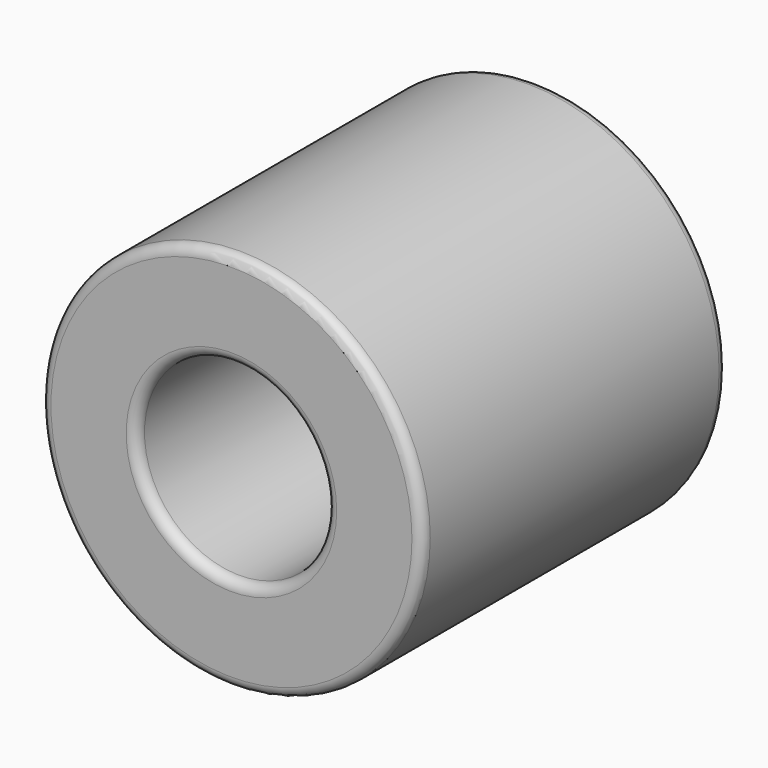
from build123d import *

# Parameters (mm, degrees)
F0_R     = 4.7625
F0_R_2   = 2.3749
F1_DEPTH = 9.525
F2_R     = 0.254
F3_R     = 0.254


with BuildPart() as f1:
    # F0 (on Front) → F1 (new body)
    with BuildSketch(Plane.XZ):
        Circle(F0_R)
        Circle(F0_R_2, mode=Mode.SUBTRACT)
    extrude(amount=F1_DEPTH)

    # F2
    f2_edges = [f1.edges().sort_by_distance(p)[0] for p in [
        (-4.7625, -9.525, 0),
        (-4.7625, 0, 0),
    ]]
    fillet(f2_edges, radius=F2_R)

    # F3
    f3_edges = [f1.edges().sort_by_distance(p)[0] for p in [
        (-2.3749, -9.525, 0),
        (-2.3749, 0, 0),
    ]]
    fillet(f3_edges, radius=F3_R)


solid = f1.part
